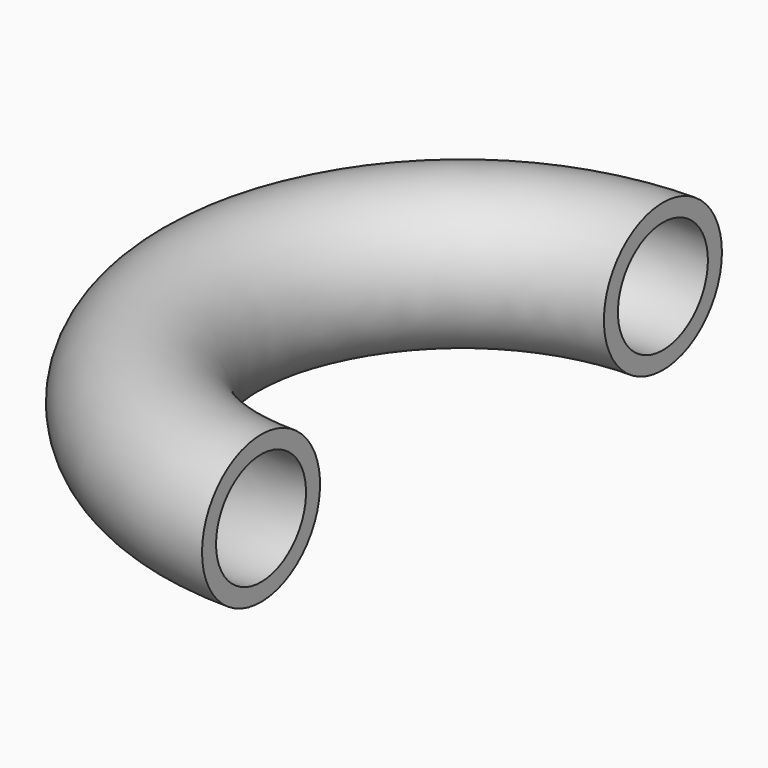
from build123d import *

# Parameters (mm, degrees)
F0_R     = 10.696521
F1_ANGLE = 180
F2_T     = -2.54


with BuildPart() as f1:
    # F0 (on Right) → F1 (revolve)
    with BuildSketch(Plane.YZ):
        with Locations((36.427315, 0)):
            Circle(F0_R)
    revolve(axis=Axis((0, 0, -0.260195), (0, 0, 1)), revolution_arc=F1_ANGLE)

    # F2
    f2_openings = [f1.faces().sort_by_distance(p)[0] for p in [
        (0, -36.427315, 0),
        (0, 36.427315, 0),
    ]]
    offset(amount=F2_T, openings=f2_openings)


solid = f1.part
